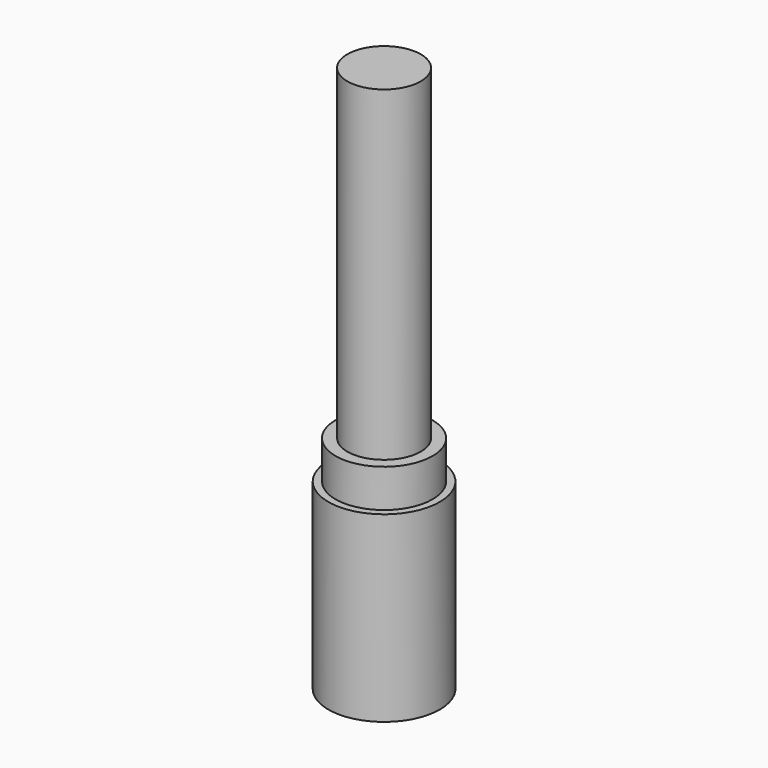
from build123d import *

# Parameters (mm, degrees)
F0_R     = 15.31
F1_DEPTH = 150.27
F2_R     = 15.31
F2_R_2   = 13.33
F3_DEPTH = 100.05
F4_R     = 13.33
F4_R_2   = 10.09
F5_DEPTH = 89.580001


with BuildPart() as f1:
    # F0 (on Top) → F1 (new body)
    with BuildSketch(Plane.XY):
        Circle(F0_R)
    extrude(amount=F1_DEPTH)

    # F2 (on face) → F3 (cut)
    with BuildSketch(Plane.XY.offset(150.27)):
        Circle(F2_R)
        Circle(F2_R_2, mode=Mode.SUBTRACT)
    extrude(amount=-F3_DEPTH, mode=Mode.SUBTRACT)

    # F4 (on face) → F5 (cut)
    with BuildSketch(Plane.XY.offset(150.27)):
        Circle(F4_R)
        Circle(F4_R_2, mode=Mode.SUBTRACT)
    extrude(amount=-F5_DEPTH, mode=Mode.SUBTRACT)


solid = f1.part
